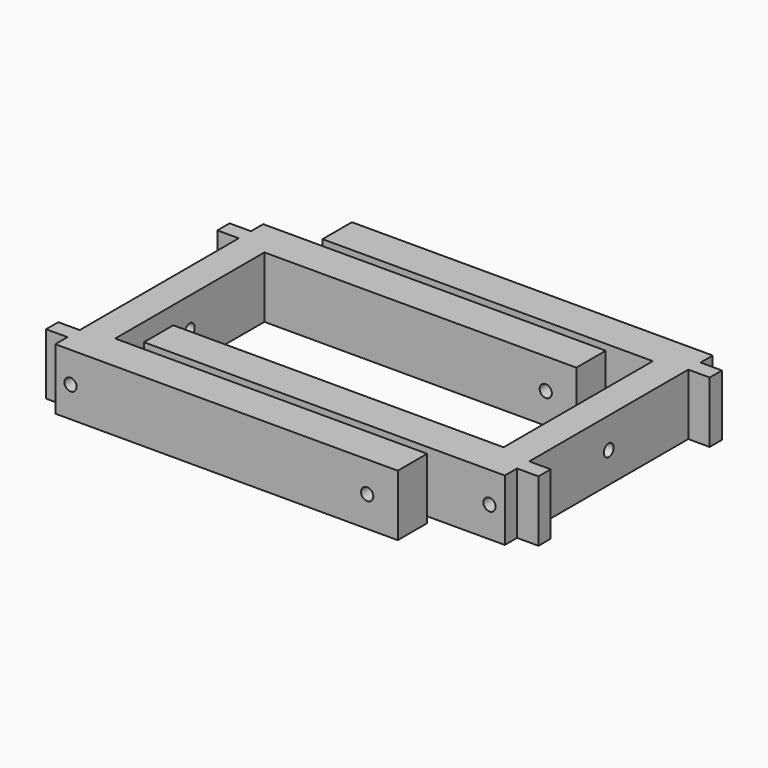
from build123d import *

# Parameters (mm, degrees)
PAD_DEPTH       = 20
SKETCH004_R     = 2
POCKET002_DEPTH = 112.001
SKETCH005_R     = 2
POCKET003_DEPTH = 85.001
PAD001_DEPTH    = 20
SKETCH007_R     = 2
POCKET004_DEPTH = 118.001
SKETCH008_R     = 2
POCKET005_DEPTH = 85.001


with BuildPart() as soporte_agujero_superior_lateral:
    # Sketch → Pad (new body)
    with BuildSketch(Plane.XY):
        Polygon((-10, -42.5), (102, -42.5), (102, -30.5), (0, -30.5), (0, 30.5), (102, 30.5), (102, 42.5), (-10, 42.5), (-10, 37.5), (-17, 37.5), (-17, 32.5), (-10, 32.5), (-10, -32.5), (-17, -32.5), (-17, -37.5), (-10, -37.5), align=None)
    extrude(amount=PAD_DEPTH)

    # Sketch004 → Pocket002 (cut, through all)
    with BuildSketch(Plane(origin=(-10, 0, 0), x_dir=(0, -1, 0), z_dir=(-1, 0, 0))):
        with Locations((0, 10)):
            Circle(SKETCH004_R)
    extrude(amount=-POCKET002_DEPTH, mode=Mode.SUBTRACT)

    # Sketch005 → Pocket003 (cut, through all)
    with BuildSketch(Plane.XZ.offset(42.5)):
        with Locations((-5, 10)):
            Circle(SKETCH005_R)
        with Locations((92, 10)):
            Circle(SKETCH005_R)
    extrude(amount=-POCKET003_DEPTH, mode=Mode.SUBTRACT)


with BuildPart() as soporte_agujero_superior_lateral001:
    # Sketch006 → Pad001 (new body)
    with BuildSketch(Plane(origin=(115, 15, 0), x_dir=(-1, 0, 0), z_dir=(0, 0, 1))):
        Polygon((-10, -42.5), (108, -42.5), (108, -30.5), (0, -30.5), (0, 30.5), (108, 30.5), (108, 42.5), (-10, 42.5), (-10, 37.5), (-17, 37.5), (-17, 32.5), (-10, 32.5), (-10, -32.5), (-17, -32.5), (-17, -37.5), (-10, -37.5), align=None)
    extrude(amount=PAD001_DEPTH)

    # Sketch007 → Pocket004 (cut, through all)
    with BuildSketch(Plane(origin=(125, 15, 0), x_dir=(0, 1, 0), z_dir=(1, 0, 0))):
        with Locations((0, 10)):
            Circle(SKETCH007_R)
    extrude(amount=-POCKET004_DEPTH, mode=Mode.SUBTRACT)

    # Sketch008 → Pocket005 (cut, through all)
    with BuildSketch(Plane(origin=(115, 57.5, 0), x_dir=(-1, 0, 0), z_dir=(0, 1, 0))):
        with Locations((-5, 10)):
            Circle(SKETCH008_R)
        with Locations((98, 10)):
            Circle(SKETCH008_R)
    extrude(amount=-POCKET005_DEPTH, mode=Mode.SUBTRACT)


solid = Compound([soporte_agujero_superior_lateral.part, soporte_agujero_superior_lateral001.part])
